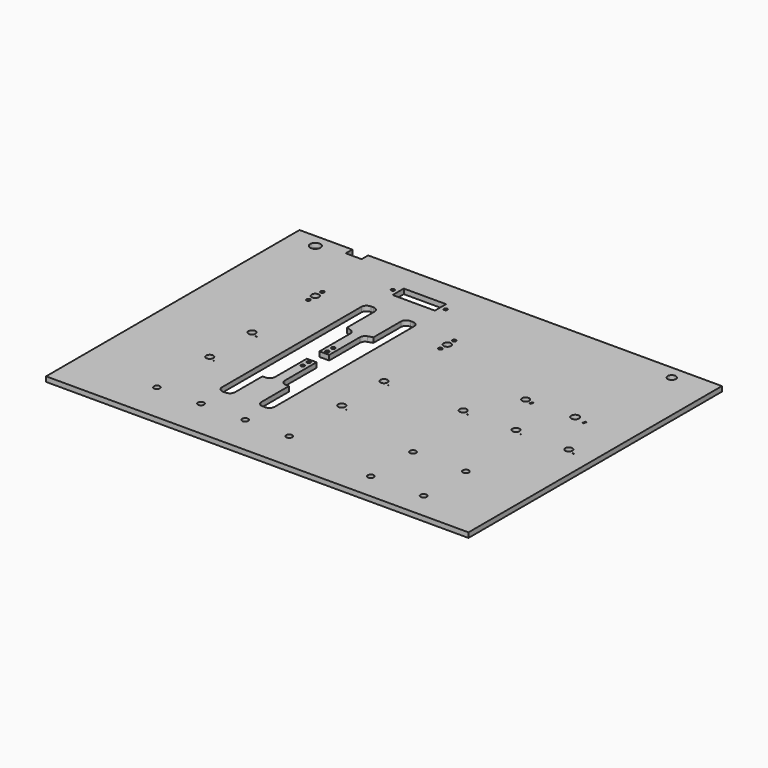
from build123d import *

# Parameters (mm, degrees)
F0_W     = 406.4
F0_H     = 304.8
F1_DEPTH = 4.7625
F2_R     = 1.7399
F2_R_2   = 3.429
F2_R_3   = 3.556
F2_W     = 15.24
F2_H     = 7.874
F2_R_4   = 4.953
F2_R_5   = 3.81
F2_R_6   = 3.937
F2_W_2   = 40.64
F2_H_2   = 13.462
F2_R_7   = 1.651
F3_DEPTH = 25.4
F4_R     = 2.921
F5_DEPTH = 25.4


with BuildPart() as f1:
    # F0 (on Top) → F1 (new body)
    with BuildSketch(Plane.XY):
        with Locations((-15.715082, 10.855626)):
            Rectangle(F0_W, F0_H)
    extrude(amount=F1_DEPTH)

    # F2 (on Top) → F3 (cut)
    with BuildSketch(Plane.XY):
        with Locations((-142.715082, 95.437626)):
            Circle(F2_R)
        with Locations((-142.715082, 78.673626)):
            Circle(F2_R)
        with Locations((-142.715082, 10.855626)):
            Circle(F2_R_2)
        with Locations((-142.715082, 87.055626)):
            Circle(F2_R_3)
        Polygon((-135.356732, 7.724144), (-136.59422, 8.009667), (-136.672544, 7.670205), (-135.435056, 7.384682), align=None)
        with Locations((-142.715082, -39.944374)):
            Circle(F2_R_2)
        Polygon((-135.356732, -43.075856), (-136.59422, -42.790333), (-136.672544, -43.129795), (-135.435056, -43.415318), align=None)
        with Locations((-15.715082, -39.944374)):
            Circle(F2_R_2)
        with Locations((-15.715082, 87.055626)):
            Circle(F2_R_3)
        with Locations((-15.715082, 10.855626)):
            Circle(F2_R_2)
        with Locations((-15.715082, 78.673626)):
            Circle(F2_R)
        with Locations((-15.715082, 95.437626)):
            Circle(F2_R)
        Polygon((-8.435056, 7.384682), (-8.356732, 7.724144), (-9.59422, 8.009667), (-9.672544, 7.670205), align=None)
        Polygon((-8.435056, -43.415318), (-8.356732, -43.075856), (-9.59422, -42.790333), (-9.672544, -43.129795), align=None)
        with Locations((-160.495082, 159.318626)):
            Rectangle(F2_W, F2_H)
        with Locations((-193.515082, 150.555626)):
            Circle(F2_R_4)
        Polygon((67.764944, 7.384682), (67.843268, 7.724144), (66.60578, 8.009667), (66.527456, 7.670205), align=None)
        with Locations((60.484918, 10.855626)):
            Circle(F2_R_2)
        Polygon((117.40578, 8.009667), (117.327456, 7.670205), (118.564944, 7.384682), (118.643268, 7.724144), align=None)
        with Locations((111.284918, 10.855626)):
            Circle(F2_R_2)
        Polygon((168.20578, 8.009667), (168.127456, 7.670205), (169.364944, 7.384682), (169.443268, 7.724144), align=None)
        with Locations((162.084918, 10.855626)):
            Circle(F2_R_2)
        Polygon((94.038508, 53.655909), (92.80102, 53.941433), (92.172868, 51.218959), (93.410356, 50.933436), align=None)
        with Locations((86.052007, 54.064918)):
            Circle(F2_R_2)
        Polygon((144.838508, 53.655909), (143.60102, 53.941433), (142.972868, 51.218959), (144.210356, 50.933436), align=None)
        with Locations((132.892046, 54.978594)):
            Circle(F2_R_5)
        with BuildLine():
            Line((-96.995082, 99.755626), (-99.535082, 99.755626))
            ThreePointArc((-99.535082, 99.755626), (-103.127184, 98.267729), (-104.615082, 94.675626))
            Line((-104.615082, 94.675626), (-104.615082, -72.964374))
            ThreePointArc((-104.615082, -72.964374), (-103.127184, -76.556476), (-99.535082, -78.044374))
            Line((-99.535082, -78.044374), (-96.995082, -78.044374))
            ThreePointArc((-96.995082, -78.044374), (-93.402979, -76.556476), (-91.915082, -72.964374))
            Line((-91.915082, -72.964374), (-91.915082, -39.944374))
            Line((-91.915082, -39.944374), (-89.606103, -39.944374))
            Line((-89.606103, -39.944374), (-88.955982, -39.944374))
            ThreePointArc((-88.955982, -39.944374), (-85.363879, -38.456476), (-83.875982, -34.864374))
            Line((-83.875982, -34.864374), (-83.875982, 1.199732))
            Line((-83.875982, 1.199732), (-83.875982, 3.235626))
            Line((-83.875982, 3.235626), (-74.554182, 3.235626))
            Line((-74.554182, 3.235626), (-74.554182, -34.864374))
            ThreePointArc((-74.554182, -34.864374), (-73.066284, -38.456476), (-69.474182, -39.944374))
            Line((-69.474182, -39.944374), (-68.82406, -39.944374))
            Line((-68.82406, -39.944374), (-66.515082, -39.944374))
            Line((-66.515082, -39.944374), (-66.515082, -72.964374))
            ThreePointArc((-66.515082, -72.964374), (-65.027184, -76.556476), (-61.435082, -78.044374))
            Line((-61.435082, -78.044374), (-58.895082, -78.044374))
            ThreePointArc((-58.895082, -78.044374), (-55.302979, -76.556476), (-53.815082, -72.964374))
            Line((-53.815082, -72.964374), (-53.815082, 94.675626))
            ThreePointArc((-53.815082, 94.675626), (-55.302979, 98.267729), (-58.895082, 99.755626))
            Line((-58.895082, 99.755626), (-61.435082, 99.755626))
            ThreePointArc((-61.435082, 99.755626), (-65.027184, 98.267729), (-66.515082, 94.675626))
            Line((-66.515082, 94.675626), (-66.515082, 61.655626))
            Line((-66.515082, 61.655626), (-71.004661, 60.237118))
            ThreePointArc((-71.004661, 60.237118), (-73.571817, 58.395778), (-74.554182, 55.393149))
            Line((-74.554182, 55.393149), (-74.554182, 18.475626))
            Line((-74.554182, 18.475626), (-83.875982, 18.475626))
            Line((-83.875982, 18.475626), (-83.875982, 55.393149))
            ThreePointArc((-83.875982, 55.393149), (-84.858346, 58.395778), (-87.425502, 60.237118))
            Line((-87.425502, 60.237118), (-91.915082, 61.655626))
            Line((-91.915082, 61.655626), (-91.915082, 94.675626))
            ThreePointArc((-91.915082, 94.675626), (-93.402979, 98.267729), (-96.995082, 99.755626))
        make_face()
        with Locations((-79.215082, 21.930026)):
            Circle(F2_R)
        with Locations((-79.215082, 29.245226)):
            Circle(F2_R)
        with Locations((-79.215082, -7.533974)):
            Circle(F2_R)
        with Locations((-79.215082, -0.218774)):
            Circle(F2_R)
        with Locations((149.384918, 150.555626)):
            Circle(F2_R_6)
        with Locations((-77.945082, 131.124626)):
            Rectangle(F2_W_2, F2_H_2)
        with Locations((-52.545082, 131.124626)):
            Circle(F2_R_7)
        with Locations((-103.345082, 131.124626)):
            Circle(F2_R_7)
    extrude(amount=F3_DEPTH, mode=Mode.SUBTRACT)

    # F4 (on face) → F5 (cut)
    with BuildSketch(Plane.XY.offset(4.7625)):
        with Locations((-142.715082, -103.444374)):
            Circle(F4_R)
        with Locations((-100.297082, -103.444374)):
            Circle(F4_R)
        with Locations((73.184918, -65.344374)):
            Circle(F4_R)
        with Locations((73.184918, -116.144374)):
            Circle(F4_R)
        with Locations((123.984918, -65.344374)):
            Circle(F4_R)
        with Locations((123.984918, -116.144374)):
            Circle(F4_R)
        with Locations((-57.879082, -103.444374)):
            Circle(F4_R)
        with Locations((-15.461082, -103.444374)):
            Circle(F4_R)
    extrude(amount=-F5_DEPTH, mode=Mode.SUBTRACT)


solid = f1.part
